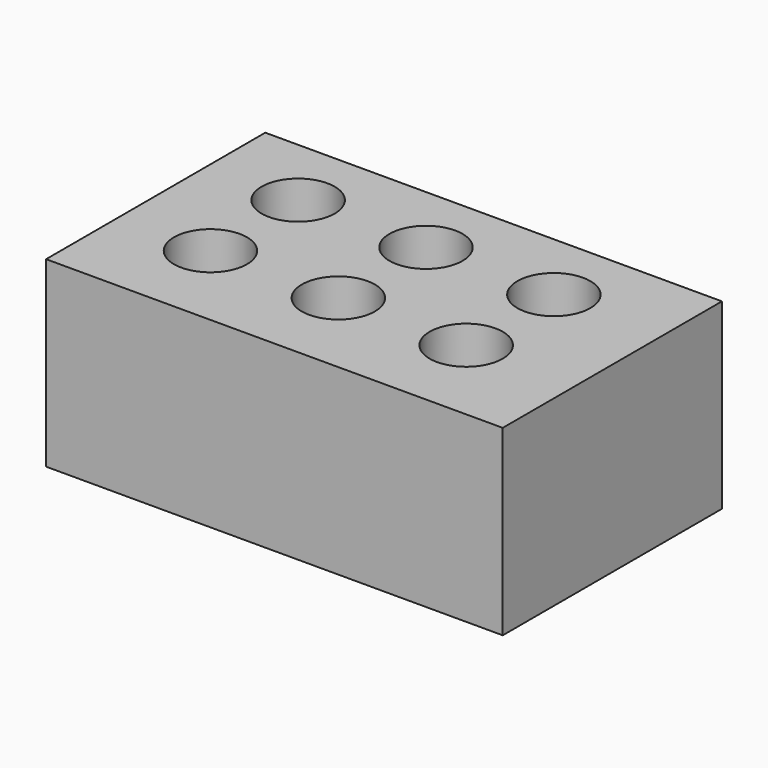
from build123d import *

# Parameters (mm, degrees)
CYLINDER005_R     = 2
CYLINDER005_DEPTH = 10
CYLINDER004_R     = 2
CYLINDER004_DEPTH = 10
CYLINDER002_R     = 2
CYLINDER002_DEPTH = 10
CYLINDER003_R     = 2
CYLINDER003_DEPTH = 10
CYLINDER_R        = 2
CYLINDER_DEPTH    = 10
CYLINDER001_R     = 2
CYLINDER001_DEPTH = 10
BOX_W             = 25
BOX_H             = 15
BOX_DEPTH         = 10


with BuildPart() as cilindro005:
    # Cylinder005 → Cylinder005 (new body)
    with BuildSketch(Plane(origin=(19, 11, 0), x_dir=(1, 0, 0), z_dir=(0, 0, 1))):
        Circle(CYLINDER005_R)
    extrude(amount=CYLINDER005_DEPTH)


with BuildPart() as fusion:
    # Cylinder004 → Cylinder004 (new body)
    with BuildSketch(Plane(origin=(12, 11, 0), x_dir=(1, 0, 0), z_dir=(0, 0, 1))):
        Circle(CYLINDER004_R)
    extrude(amount=CYLINDER004_DEPTH)

    # Fusion: union Cilindro005
    add(cilindro005.part)


with BuildPart() as cilindro002:
    # Cylinder002 → Cylinder002 (new body)
    with BuildSketch(Plane(origin=(19, 5, 0), x_dir=(1, 0, 0), z_dir=(0, 0, 1))):
        Circle(CYLINDER002_R)
    extrude(amount=CYLINDER002_DEPTH)


with BuildPart() as fusion001:
    # Cylinder003 → Cylinder003 (new body)
    with BuildSketch(Plane(origin=(5, 11, 0), x_dir=(1, 0, 0), z_dir=(0, 0, 1))):
        Circle(CYLINDER003_R)
    extrude(amount=CYLINDER003_DEPTH)

    # Fusion001: union Cilindro002
    add(cilindro002.part)


with BuildPart() as cilindro:
    # Cylinder → Cylinder (new body)
    with BuildSketch(Plane(origin=(5, 5, 0), x_dir=(1, 0, 0), z_dir=(0, 0, 1))):
        Circle(CYLINDER_R)
    extrude(amount=CYLINDER_DEPTH)


with BuildPart() as agujeros:
    # Cylinder001 → Cylinder001 (new body)
    with BuildSketch(Plane(origin=(12, 5, 0), x_dir=(1, 0, 0), z_dir=(0, 0, 1))):
        Circle(CYLINDER001_R)
    extrude(amount=CYLINDER001_DEPTH)

    # Fusion002: union Cilindro
    add(cilindro.part)

    # Fusion003: union Fusion, Fusion001
    add(fusion.part)
    add(fusion001.part)


with BuildPart() as obj1:
    # Box → Box (new body)
    with BuildSketch(Plane.XY):
        with Locations((12.5, 7.5)):
            Rectangle(BOX_W, BOX_H)
    extrude(amount=BOX_DEPTH)

    # Cut: cut agujeros
    add(agujeros.part, mode=Mode.SUBTRACT)


solid = obj1.part
